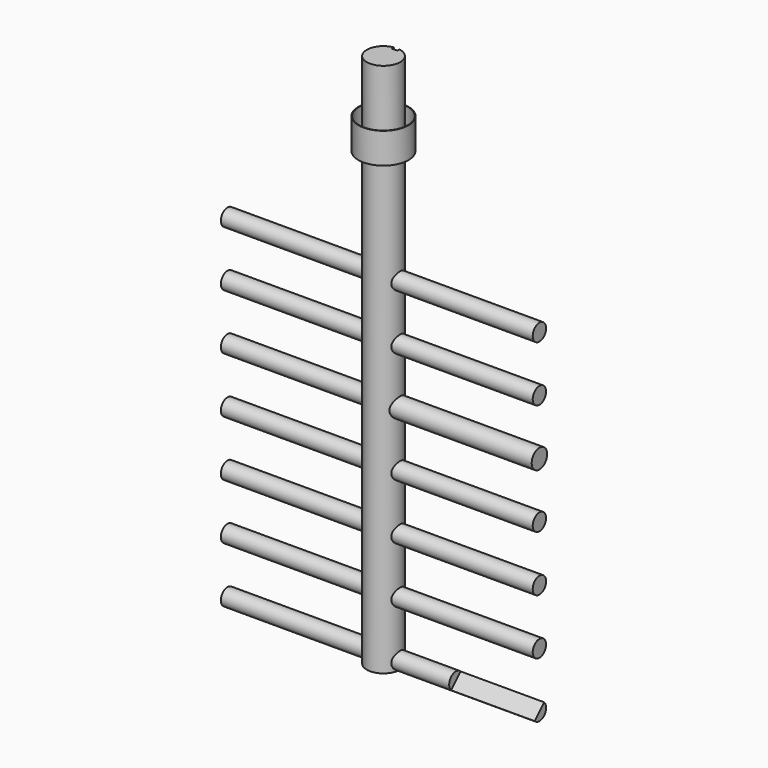
from build123d import *

# Parameters (mm, degrees)
F0_R      = 30
F1_DEPTH  = 960.5
F2_R      = 15
F2_R_2    = 17.324652
F3_DEPTH  = 280
F4_R      = 15
F5_DEPTH  = 280
F7_DEPTH  = 150
F10_R     = 45
F11_DEPTH = 2
F12_R     = 45
F12_R_2   = 44
F13_DEPTH = 55
F14_W     = 10
F14_H     = 10.51084
F15_DEPTH = 89


with BuildPart() as f1:
    # F0 (on Top) → F1 (new body)
    with BuildSketch(Plane.XY):
        Circle(F0_R)
    extrude(amount=F1_DEPTH)

    # F2 (on Right) → F3 (join)
    with BuildSketch(Plane.YZ):
        with Locations((0, 15.024992)):
            Circle(F2_R)
        with Locations((0, 115.024992)):
            Circle(F2_R)
        with Locations((0, 215.024992)):
            Circle(F2_R)
        with Locations((0, 315.024992)):
            Circle(F2_R)
        with Locations((0, 415.024992)):
            Circle(F2_R_2)
        with Locations((0, 515.024992)):
            Circle(F2_R)
        with Locations((0, 615.024992)):
            Circle(F2_R)
    extrude(amount=F3_DEPTH)

    # F4 (on Right) → F5 (join)
    with BuildSketch(Plane.YZ):
        with Locations((0, 15)):
            Circle(F4_R)
        with Locations((0, 115)):
            Circle(F4_R)
        with Locations((0, 215)):
            Circle(F4_R)
        with Locations((0, 315)):
            Circle(F4_R)
        with Locations((0, 415)):
            Circle(F4_R)
        with Locations((0, 515)):
            Circle(F4_R)
        with Locations((0, 615)):
            Circle(F4_R)
    extrude(amount=-F5_DEPTH)

    # F6 (on face) → F7 (cut)
    with BuildSketch(Plane.YZ.offset(280)):
        Polygon((-25.039708, 41.774903), (-21.860962, -6.83597), (0, 15.024992), (26.749911, 41.774903), align=None)
    extrude(amount=-F7_DEPTH, mode=Mode.SUBTRACT)

    # F10 (on offset) → F11 (join)
    with BuildSketch(Plane.XY.offset(810.5)):
        Circle(F10_R)
    extrude(amount=F11_DEPTH)

    # F12 (on offset) → F13 (join)
    with BuildSketch(Plane.XY.offset(810.5)):
        Circle(F12_R)
        Circle(F12_R_2, mode=Mode.SUBTRACT)
    extrude(amount=F13_DEPTH)

    # F14 (on offset) → F15 (cut)
    with BuildSketch(Plane.XY.offset(960.5)):
        with Locations((0, 30)):
            Rectangle(F14_W, F14_H)
    extrude(amount=-F15_DEPTH, mode=Mode.SUBTRACT)


solid = f1.part
